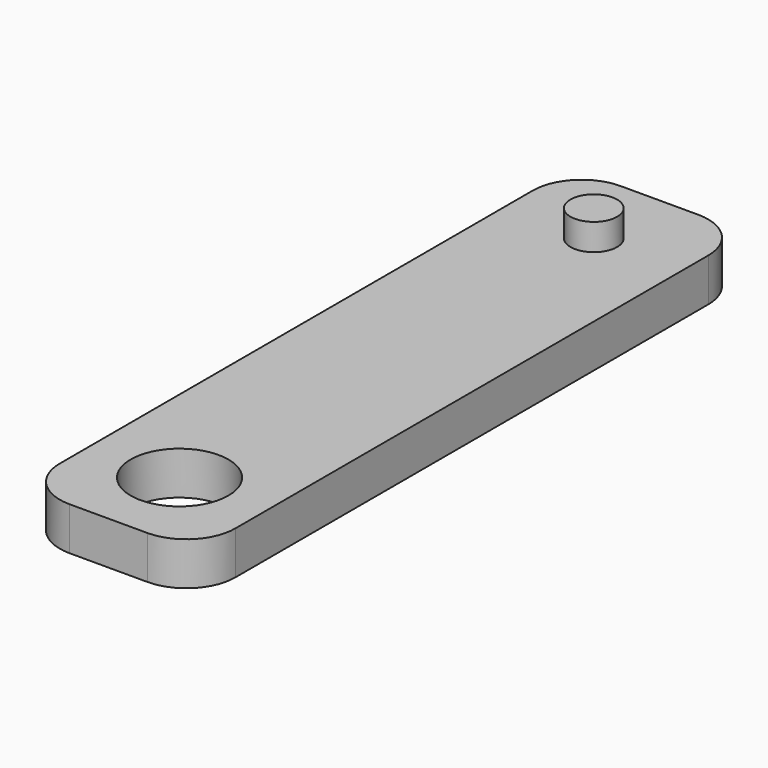
from build123d import *

# Parameters (mm, degrees)
F0_W     = 39.5
F0_H     = 155
F1_DEPTH = 9.7
F2_R     = 11
F3_R     = 11
F4_DEPTH = 9.701
F5_R     = 5.25
F6_DEPTH = 6


with BuildPart() as f1:
    # F0 (on Top) → F1 (new body)
    with BuildSketch(Plane.XY):
        Rectangle(F0_W, F0_H)
    extrude(amount=F1_DEPTH)

    # F2
    f2_edges = [f1.edges().sort_by_distance(p)[0] for p in [
        (-19.75, 77.5, 4.85),
        (19.75, 77.5, 4.85),
        (19.75, -77.5, 4.85),
        (-19.75, -77.5, 4.85),
    ]]
    fillet(f2_edges, radius=F2_R)

    # F3 (on face) → F4 (cut, through all)
    with BuildSketch(Plane.XY.offset(9.7)):
        with Locations((0, -57.5)):
            Circle(F3_R)
    extrude(amount=-F4_DEPTH, mode=Mode.SUBTRACT)

    # F5 (on face) → F6 (join)
    with BuildSketch(Plane.XY.offset(9.7)):
        with Locations((0, 59)):
            Circle(F5_R)
    extrude(amount=F6_DEPTH)


solid = f1.part
